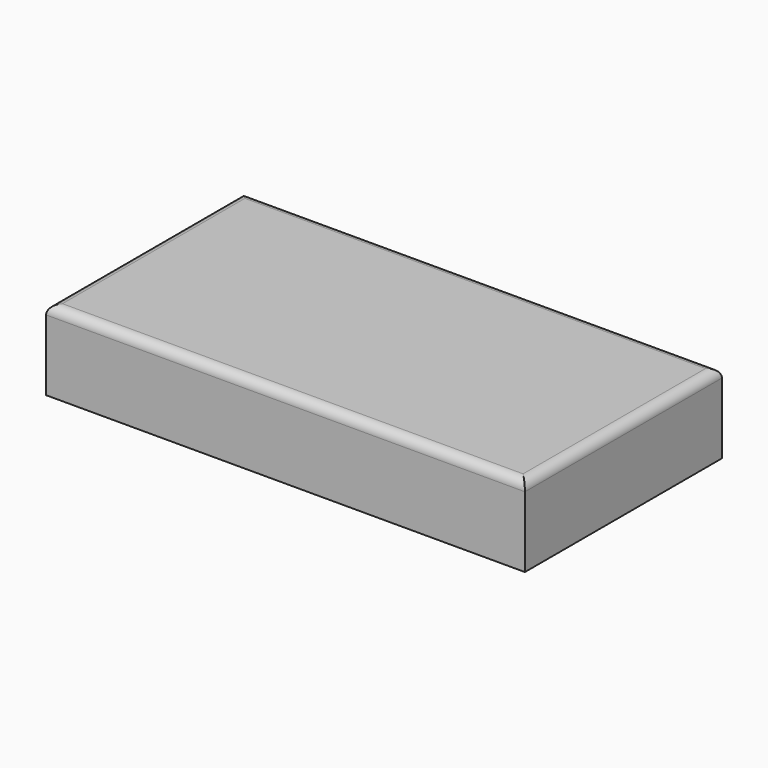
from build123d import *

# Parameters (mm, degrees)
F0_W     = 2100
F0_H     = 1080
F1_DEPTH = 350
F2_R     = 40


with BuildPart() as f1:
    # F0 (on Top) → F1 (new body)
    with BuildSketch(Plane.XY):
        with Locations((1050, 540)):
            Rectangle(F0_W, F0_H)
        with Locations((1050, 540)):
            Rectangle(F0_W, F0_H)
    extrude(amount=F1_DEPTH)

    # F2
    f2_edges = [f1.edges().sort_by_distance(p)[0] for p in [
        (0, 540, 350),
        (1050, 0, 350),
        (2100, 540, 350),
        (1050, 1080, 350),
    ]]
    fillet(f2_edges, radius=F2_R)


solid = f1.part
